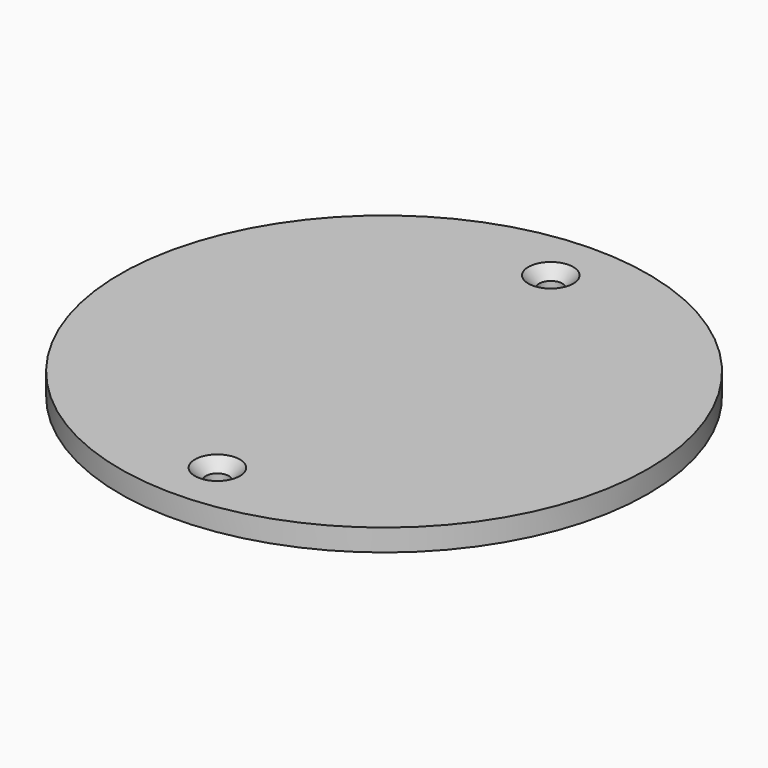
from build123d import *

# Parameters (mm, degrees)
F0_R     = 24.06525
F0_R_2   = 1.05
F1_DEPTH = 2
F2_SIZE  = 1
F3_SCALE = 3


with BuildPart() as f1:
    # F0 (on Top) → F1 (new body)
    with BuildSketch(Plane.XY):
        Circle(F0_R)
        with Locations((0, -19)):
            Circle(F0_R_2, mode=Mode.SUBTRACT)
        with Locations((0, 19)):
            Circle(F0_R_2, mode=Mode.SUBTRACT)
    extrude(amount=F1_DEPTH)

    # F2
    f2_edges = [f1.edges().sort_by_distance(p)[0] for p in [
        (-1.05, 19, 2),
        (-1.05, -19, 2),
    ]]
    chamfer(f2_edges, length=F2_SIZE)


with BuildPart() as f1_1:
    # F3: moved
    add(f1.part.scale(F3_SCALE))


solid = f1_1.part
